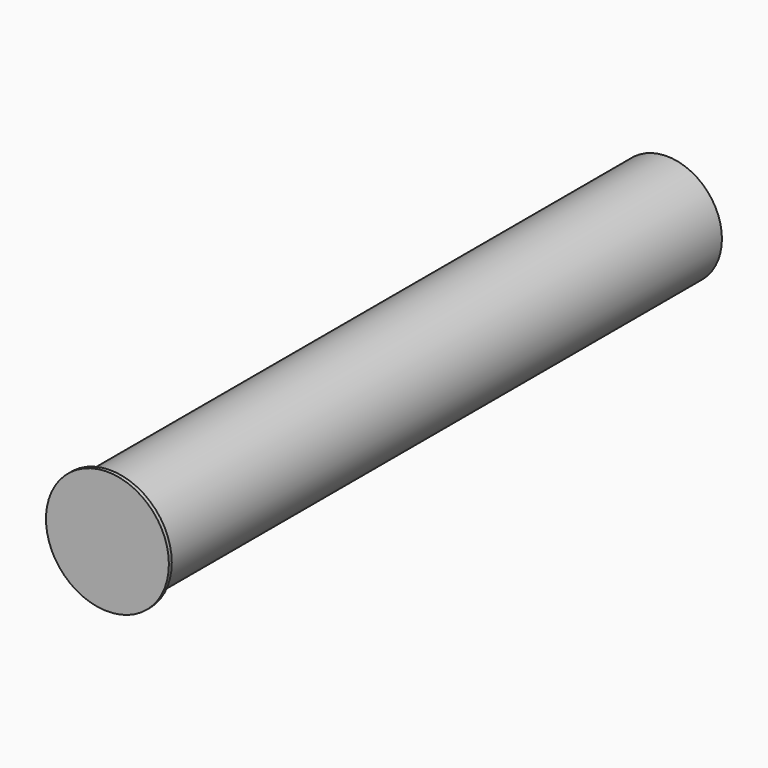
from build123d import *

# Parameters (mm, degrees)
F0_R          = 0.38719
F1_DEPTH      = 0.4572
F1_DEPTH_BACK = 4.445
F2_R          = 0.433011
F3_DEPTH      = 0.0254


with BuildPart() as f1:
    # F0 (on Front) → F1 (new body, two sides)
    with BuildSketch(Plane.XZ) as f1_sk:
        Circle(F0_R)
    extrude(amount=F1_DEPTH)
    extrude(f1_sk.sketch, amount=-F1_DEPTH_BACK)

    # F2 (on face) → F3 (join)
    with BuildSketch(Plane.XZ.offset(0.4572)):
        Circle(F2_R)
    extrude(amount=F3_DEPTH)


solid = f1.part
